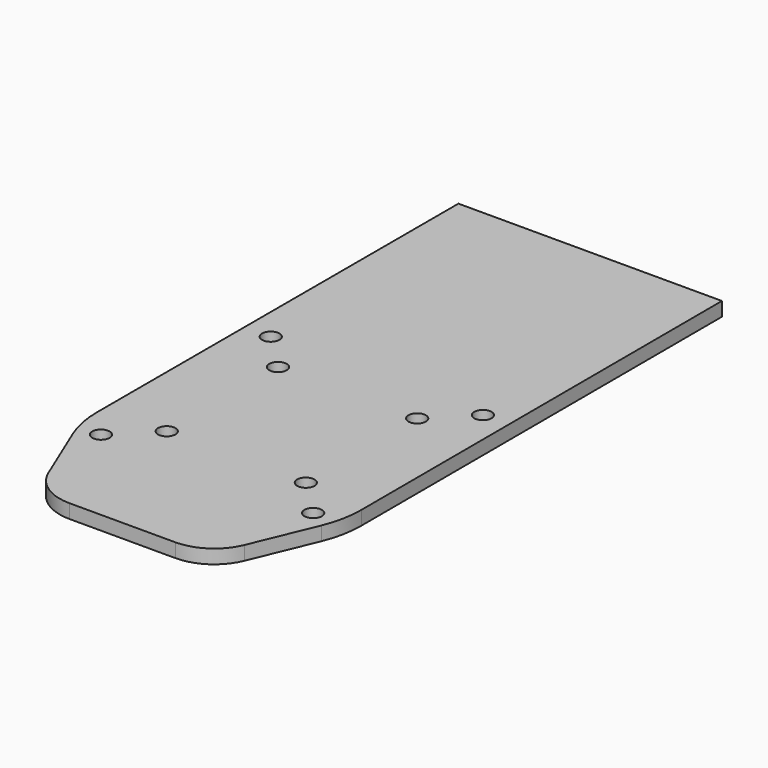
from build123d import *

# Parameters (mm, degrees)
F0_R     = 1.25
F1_DEPTH = 2


with BuildPart() as f1:
    # F0 (on Top) → F1 (new body)
    with BuildSketch(Plane.XY):
        with BuildLine():
            Line((18.871992, 53.662522), (-19, 53.662522))
            Line((-19, 53.662522), (-19, -11.292945))
            ThreePointArc((-19, -11.292945), (-18.710495, -14.225749), (-17.853155, -17.045345))
            Line((-17.853155, -17.045345), (-14.071081, -26.153484))
            ThreePointArc((-14.071081, -26.153484), (-11.492715, -29.291023), (-7.606275, -30.469031))
            Line((-7.606275, -30.469031), (7.606275, -30.469031))
            ThreePointArc((7.606275, -30.469031), (11.492715, -29.291023), (14.071081, -26.153484))
            Line((14.071081, -26.153484), (17.853155, -17.045345))
            ThreePointArc((17.853155, -17.045345), (18.710495, -14.225749), (19, -11.292945))
            Line((19, -11.292945), (18.871992, 53.662522))
        make_face()
        with Locations((-15.25, -15.25)):
            Circle(F0_R, mode=Mode.SUBTRACT)
        with Locations((-10, -10)):
            Circle(F0_R, mode=Mode.SUBTRACT)
        with Locations((-10, 10)):
            Circle(F0_R, mode=Mode.SUBTRACT)
        with Locations((10, -10)):
            Circle(F0_R, mode=Mode.SUBTRACT)
        with Locations((15.25, -15.25)):
            Circle(F0_R, mode=Mode.SUBTRACT)
        with Locations((10, 10)):
            Circle(F0_R, mode=Mode.SUBTRACT)
        with Locations((-15.25, 15.25)):
            Circle(F0_R, mode=Mode.SUBTRACT)
        with Locations((15.25, 15.25)):
            Circle(F0_R, mode=Mode.SUBTRACT)
    extrude(amount=F1_DEPTH)


solid = f1.part
